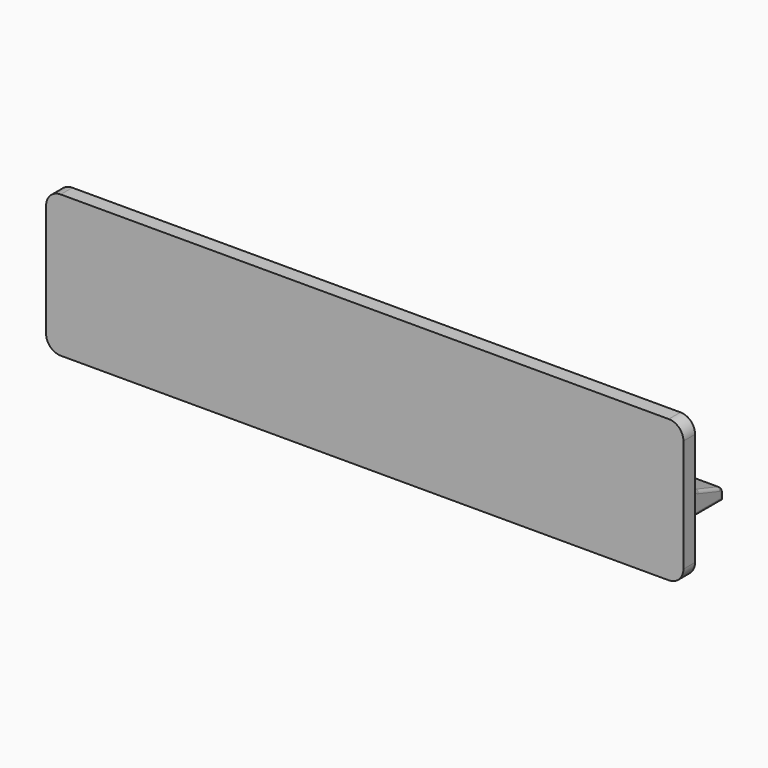
from build123d import *

# Parameters (mm, degrees)
F1_DEPTH = 127
F2_R     = 5.08
F3_R     = 2.54
F4_R     = 7.9375
F5_DEPTH = 13.2299996912
F6_SIZE  = 0.762
F8_DEPTH = 12.7


with BuildPart() as f1:
    # F0 (on Right) → F1 (new body, symmetric)
    with BuildSketch(Plane.YZ):
        Polygon((13.2299996912, 51.7500005662), (0, 51.7500005662), (0, 0), (13.2299996912, 0), (43.4699989855, 0), (43.4699989855, 9.810000658), (13.2299996912, 19.7100006044), align=None)
    extrude(amount=F1_DEPTH, both=True)

    # F2
    f2_edges = [f1.edges().sort_by_distance(p)[0] for p in [
        (0, 0, 51.750001),
        (0, 0, 0),
        (0, 43.469999, 9.810001),
        (0, 13.23, 51.750001),
        (0, 13.23, 19.710001),
    ]]
    fillet(f2_edges, radius=F2_R)

    # F3
    f3_edges = [f1.edges().sort_by_distance(p)[0] for p in [
        (-127, 0, 25.875),
        (127, 0, 25.875),
    ]]
    fillet(f3_edges, radius=F3_R)

    # F4 (on face) → F5 (cut, through all)
    with BuildSketch(Plane(origin=(0, 13.2299996912, 0), x_dir=(-1, 0, 0), z_dir=(0, 1, 0))):
        with Locations((-76.2, 33.02)):
            Circle(F4_R)
        with Locations((-38.1, 33.02)):
            Circle(F4_R)
        with Locations((25.4, 33.02)):
            Circle(F4_R)
        with Locations((57.15, 33.02)):
            Circle(F4_R)
        with Locations((76.2, 33.02)):
            Circle(F4_R)
    extrude(amount=-F5_DEPTH, mode=Mode.SUBTRACT)

    # F6
    f6_edges = [f1.edges().sort_by_distance(p)[0] for p in [
        (68.2625, 6.615, 33.02),
        (84.1375, 13.23, 33.02),
        (84.1375, 0, 33.02),
        (30.1625, 6.615, 33.02),
        (46.0375, 13.23, 33.02),
        (46.0375, 0, 33.02),
        (-33.3375, 6.615, 33.02),
        (-17.4625, 13.23, 33.02),
        (-17.4625, 0, 33.02),
        (-65.0875, 6.615, 33.02),
        (-49.2125, 13.23, 33.02),
        (-49.2125, 0, 33.02),
        (-84.1375, 6.615, 33.02),
        (-68.2625, 13.23, 33.02),
        (-68.2625, 0, 33.02),
    ]]
    chamfer(f6_edges, length=F6_SIZE)


with BuildPart() as f8:
    # F7 (on Front) → F8 (new body)
    with BuildSketch(Plane.XZ):
        with BuildLine():
            ThreePointArc((137.1185183525, 71.4619266033), (133.3987744736, 80.4421827244), (124.4185183525, 84.1619266033))
            Line((124.4185183525, 84.1619266033), (-140.0033086538, 84.1619266033))
            Line((-140.0033086538, 84.1619266033), (-140.0033086538, -39.2818041146))
            Line((-140.0033086538, -39.2818041146), (124.4185183525, -39.2818041146))
            ThreePointArc((124.4185183525, -39.2818041146), (133.3987744736, -35.5620602356), (137.1185183525, -26.5818041146))
            Line((137.1185183525, -26.5818041146), (137.1185183525, 71.4619266033))
        make_face()
    extrude(amount=F8_DEPTH)

    # F9: F8 across face


with BuildPart() as f8_1:
    add(f8.part)
    add(f8.part.mirror(Plane(origin=(-140.0033086538, -6.35, 22.4400612444), x_dir=(0, -1, 0), z_dir=(-1, 0, 0))))


solid = Compound([f1.part, f8_1.part])
